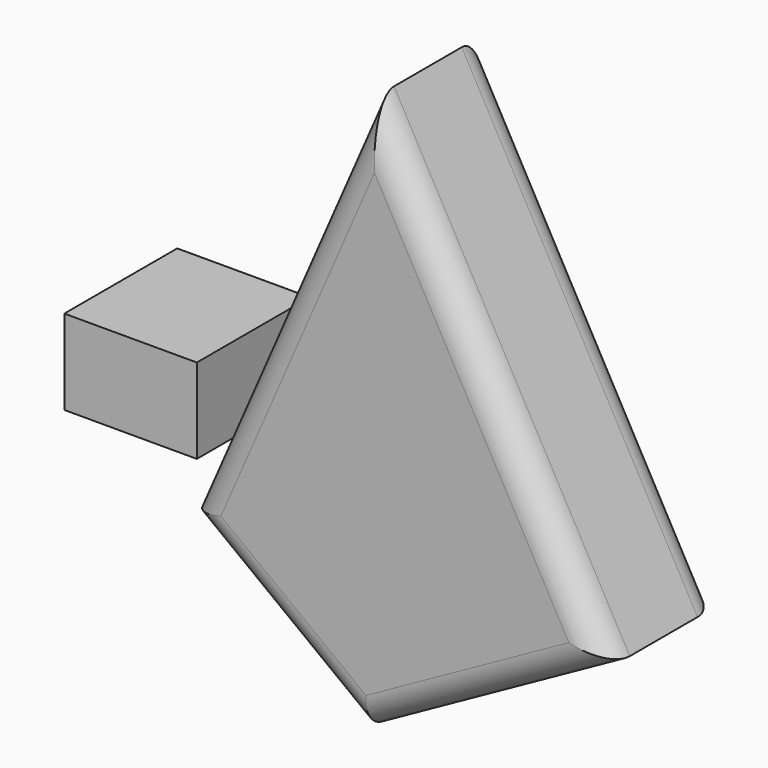
from build123d import *

# Parameters (mm, degrees)
F1_DEPTH = 25.4
F2_R     = 5.08
F3_W     = 23.849495
F3_H     = 15.275128
F4_DEPTH = 25.4


with BuildPart() as f1:
    # F0 (on Front) → F1 (new body)
    with BuildSketch(Plane.XZ):
        Polygon((33.346146, 76.491147), (0, 0), (31.915025, -24.341872), (75.786695, 0), align=None)
    extrude(amount=F1_DEPTH)

    # F2
    f2_edges = [f1.edges().sort_by_distance(p)[0] for p in [
        (53.85086, -25.4, -12.170936),
        (54.566421, -25.4, 38.245574),
        (16.673073, -25.4, 38.245574),
        (15.957513, -25.4, -12.170936),
        (53.85086, 0, -12.170936),
        (54.566421, 0, 38.245574),
        (16.673073, 0, 38.245574),
        (15.957513, 0, -12.170936),
    ]]
    fillet(f2_edges, radius=F2_R)


with BuildPart() as f4:
    # F3 (on Front) → F4 (new body)
    with BuildSketch(Plane.XZ):
        with Locations((-30.329249, 0)):
            Rectangle(F3_W, F3_H)
    extrude(amount=-F4_DEPTH)


solid = Compound([f1.part, f4.part])
